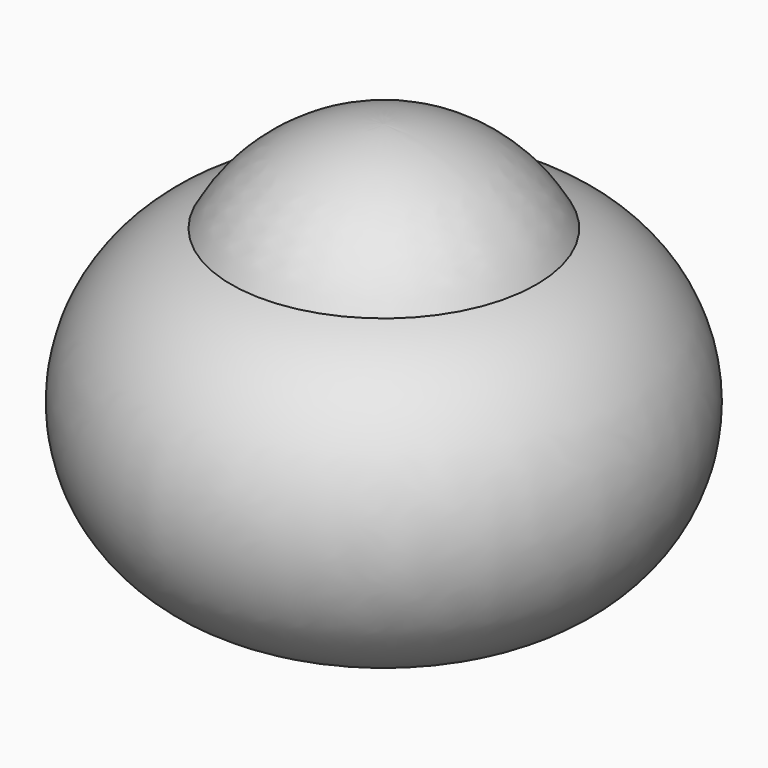
from build123d import *

# Parameters (mm, degrees)
F0_R     = 10
F0_R_2   = 8
F1_DEPTH = 20


with BuildPart() as f1:
    # F0 (on Top) → F1 (new body)
    with BuildSketch(Plane.XY):
        Circle(F0_R)
        Circle(F0_R_2, mode=Mode.SUBTRACT)
    extrude(amount=F1_DEPTH)

    # F2 (on Front) → F3 (revolve)
    with BuildSketch(Plane.XZ):
        with BuildLine():
            ThreePointArc((10, 0), (17.298438, 10), (10, 20))
            Line((10, 20), (10, 0))
        make_face()
        with BuildLine():
            Line((0, 20), (10, 20))
            ThreePointArc((10, 20), (5.816961, 24.361601), (0, 26))
            Line((0, 26), (0, 20))
        make_face()
    revolve(axis=Axis((0, 0, 10), (0, 0, 1)))


solid = f1.part
